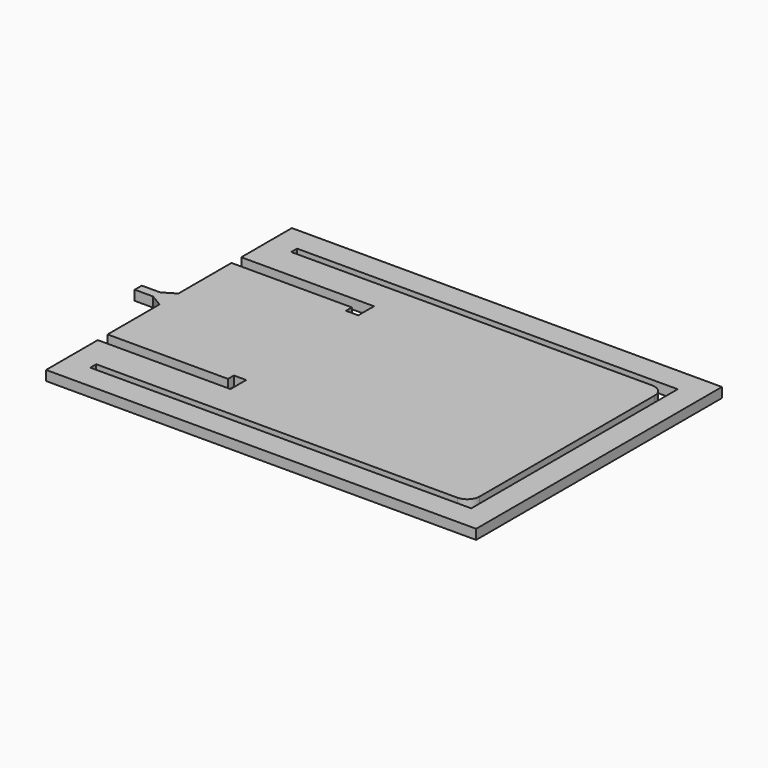
from build123d import *

# Parameters (mm, degrees)
F0_W     = 200
F0_H     = 150
F1_DEPTH = 4
F3_DEPTH = 25


with BuildPart() as f1:
    # F0 (on Top) → F1 (new body)
    with BuildSketch(Plane.XY):
        Rectangle(F0_W, F0_H)
    extrude(amount=F1_DEPTH)

    # F2 (on face) → F3 (cut)
    with BuildSketch(Plane.XY.offset(4)):
        Polygon((-87.500563, 60.43724), (87.499437, 60.43724), (87.499437, -64.56276), (-77.500563, -64.56276), (-87.500563, -64.56276), (-87.500563, -38.276056), (-46.000563, -38.276056), (-41.000563, -38.276056), (-33.500563, -38.276056), (-33.500563, -30.276056), (-38.500563, -30.276056), (-38.500563, -33.276056), (-87.500563, -33.276056), (-87.500563, -6.86276), (-92.500563, -3.86276), (-100, -3.86276), (-100, -75), (100, -75), (100, 75), (-100, 75), (-100, -0.26276), (-92.500563, -0.26276), (-87.500563, 2.73724), (-87.500563, 29.723944), (-46.000563, 29.723944), (-38.500563, 29.723944), (-38.500563, 26.723944), (-33.500563, 26.723944), (-33.500563, 34.723944), (-41.000563, 34.723944), (-87.500563, 34.723944), align=None)
        with BuildLine():
            Line((60.637614, 50.43724), (-74.362386, 50.43724))
            Line((-74.362386, 50.43724), (-77.362386, 50.43724))
            Line((-77.362386, 50.43724), (-77.362386, 47.43724))
            Line((-77.362386, 47.43724), (-74.362386, 47.43724))
            Line((-74.362386, 47.43724), (57.637614, 47.43724))
            Line((57.637614, 47.43724), (60.637614, 47.43724))
            Line((60.637614, 47.43724), (69.499437, 47.43724))
            ThreePointArc((69.499437, 47.43724), (73.034971, 45.972774), (74.499437, 42.43724))
            Line((74.499437, 42.43724), (74.499437, -46.56276))
            ThreePointArc((74.499437, -46.56276), (73.034971, -50.098294), (69.499437, -51.56276))
            Line((69.499437, -51.56276), (60.637614, -51.56276))
            Line((60.637614, -51.56276), (-77.500563, -51.56276))
            Line((-77.500563, -51.56276), (-77.500563, -54.56276))
            Line((-77.500563, -54.56276), (60.637614, -54.56276))
            Line((60.637614, -54.56276), (77.499437, -54.56276))
            Line((77.499437, -54.56276), (77.499437, 47.43724))
            Line((77.499437, 47.43724), (77.499437, 50.43724))
            Line((77.499437, 50.43724), (74.499437, 50.43724))
            Line((74.499437, 50.43724), (60.637614, 50.43724))
        make_face()
    extrude(amount=-F3_DEPTH, mode=Mode.SUBTRACT)


solid = f1.part
